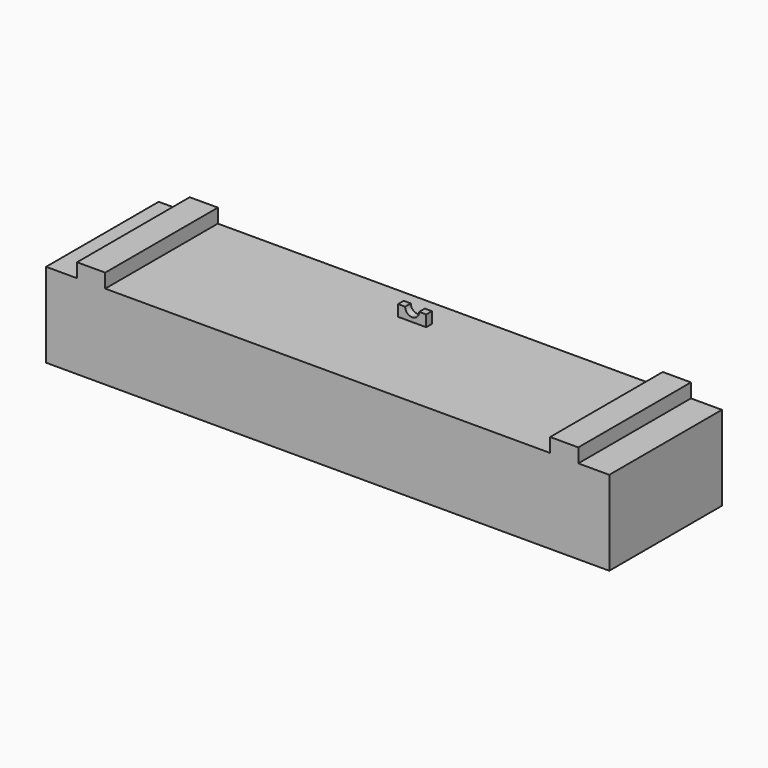
from build123d import *

# Parameters (mm, degrees)
F0_W     = 2000
F0_H     = 300
F1_DEPTH = 250
F2_W     = 100
F2_H     = 500
F3_DEPTH = 50
F5_START = -375
F5_DEPTH = 25


with BuildPart() as f1:
    # F0 (on Front) → F1 (new body, symmetric)
    with BuildSketch(Plane.XZ):
        with Locations((0, -150)):
            Rectangle(F0_W, F0_H)
    extrude(amount=F1_DEPTH, both=True)

    # F2 (on face) → F3 (join)
    with BuildSketch(Plane.XY):
        with Locations((840, 0)):
            Rectangle(F2_W, F2_H)
        with Locations((-840, 0)):
            Rectangle(F2_W, F2_H)
    extrude(amount=F3_DEPTH)

    # F4 (on face) → F5 (join)
    with BuildSketch(Plane.XZ.offset(250).offset(F5_START)):
        with BuildLine():
            ThreePointArc((25, 40), (0, 15), (-25, 40))
            Line((-25, 40), (-50, 40))
            Line((-50, 40), (-50, 0))
            Line((-50, 0), (50, 0))
            Line((50, 0), (50, 40))
            Line((50, 40), (25, 40))
        make_face()
    extrude(amount=-F5_DEPTH)


solid = f1.part
